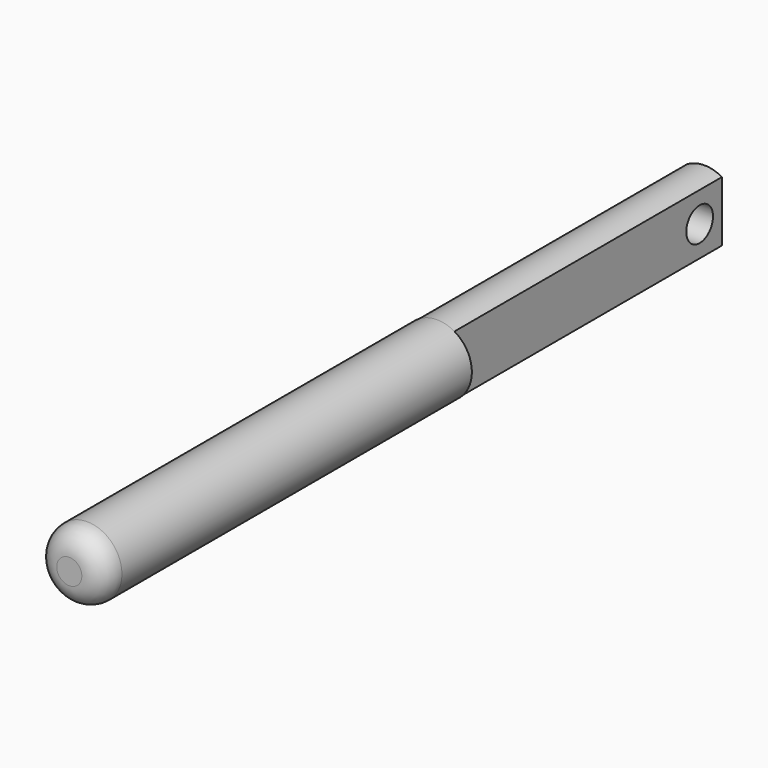
from build123d import *

# Parameters (mm, degrees)
F0_R     = 12.5
F1_DEPTH = 82.5
F3_DEPTH = 120
F4_R     = 8
F5_R     = 6
F6_DEPTH = 25


with BuildPart() as f1:
    # F0 (on Front) → F1 (new body, symmetric)
    with BuildSketch(Plane.XZ):
        Circle(F0_R)
    extrude(amount=F1_DEPTH, both=True)

    # F2 (on face) → F3 (join)
    with BuildSketch(Plane(origin=(0, 82.5, 0), x_dir=(-1, 0, 0), z_dir=(0, 1, 0))):
        with BuildLine():
            Line((6.25, -10.825318), (6.25, 10.825318))
            ThreePointArc((6.25, 10.825318), (0, 12.5), (-6.25, 10.825318))
            Line((-6.25, 10.825318), (-6.25, -10.825318))
            ThreePointArc((-6.25, -10.825318), (0, -12.5), (6.25, -10.825318))
        make_face()
    extrude(amount=F3_DEPTH)

    # F4
    f4_edges = [f1.edges().sort_by_distance(p)[0] for p in [
        (-12.5, -82.5, 0),
    ]]
    fillet(f4_edges, radius=F4_R)

    # F5 (on face) → F6 (cut)
    with BuildSketch(Plane.YZ.offset(6.25)):
        with Locations((192.5, 0)):
            Circle(F5_R)
    extrude(amount=-F6_DEPTH, mode=Mode.SUBTRACT)


solid = f1.part
